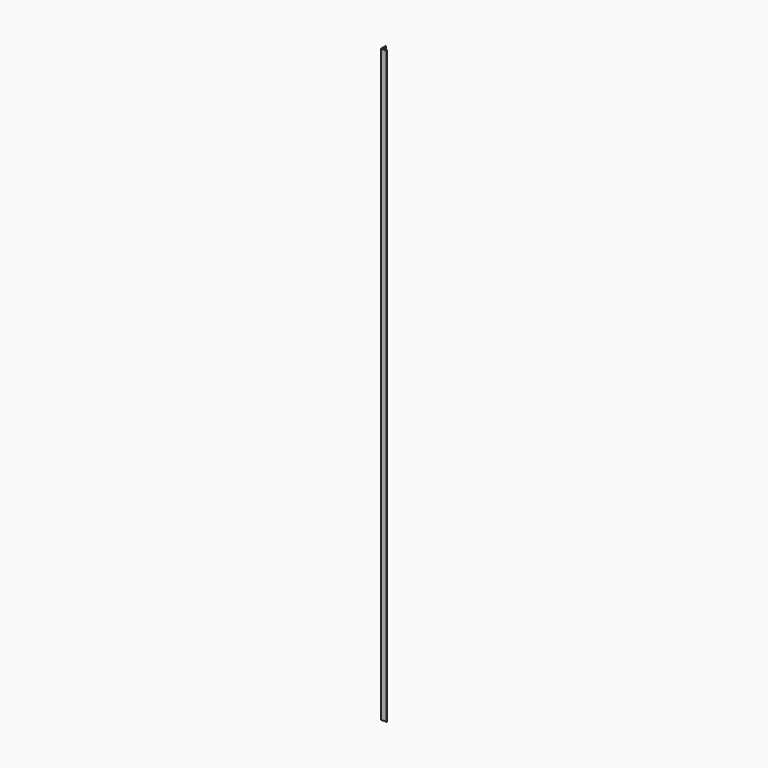
from build123d import *

# Parameters (mm, degrees)
F1_DEPTH = 2100


with BuildPart() as f1:
    # F0 (on Top) → F1 (new body)
    with BuildSketch(Plane.XY):
        with BuildLine():
            Line((-10, 10), (-10, -10))
            Line((-10, -10), (10, -10))
            Line((10, -10), (10, -9))
            ThreePointArc((10, -9), (9.414214, -7.585786), (8, -7))
            Line((8, -7), (-3.5, -7))
            ThreePointArc((-3.5, -7), (-5.974874, -5.974874), (-7, -3.5))
            Line((-7, -3.5), (-7, 8))
            ThreePointArc((-7, 8), (-7.585786, 9.414214), (-9, 10))
            Line((-9, 10), (-10, 10))
        make_face()
    extrude(amount=F1_DEPTH)


solid = f1.part
